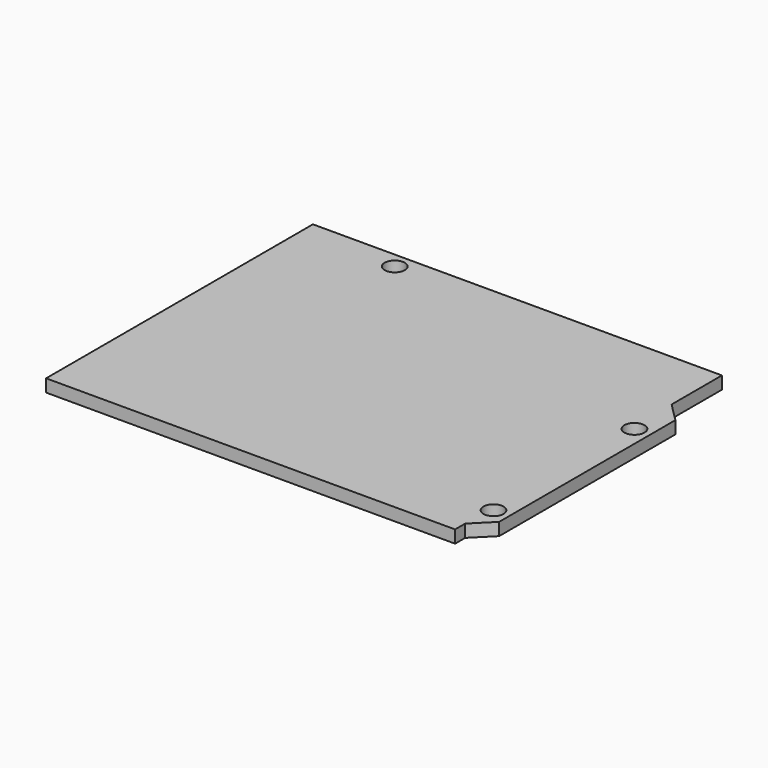
from build123d import *

# Parameters (mm, degrees)
F0_R     = 1.6
F1_DEPTH = 2


with BuildPart() as f1:
    # F0 (on Top) → F1 (new body)
    with BuildSketch(Plane.XY):
        Polygon((65, 26.5), (0, 26.5), (0, -26.5), (65, -26.5), (65, -24.5), (68, -21.5), (68, 13.5), (65, 16.5), align=None)
        with Locations((65.5, -19.5)):
            Circle(F0_R, mode=Mode.SUBTRACT)
        with Locations((15, 24)):
            Circle(F0_R, mode=Mode.SUBTRACT)
        with Locations((65.5, 8.5)):
            Circle(F0_R, mode=Mode.SUBTRACT)
    extrude(amount=F1_DEPTH)


solid = f1.part
